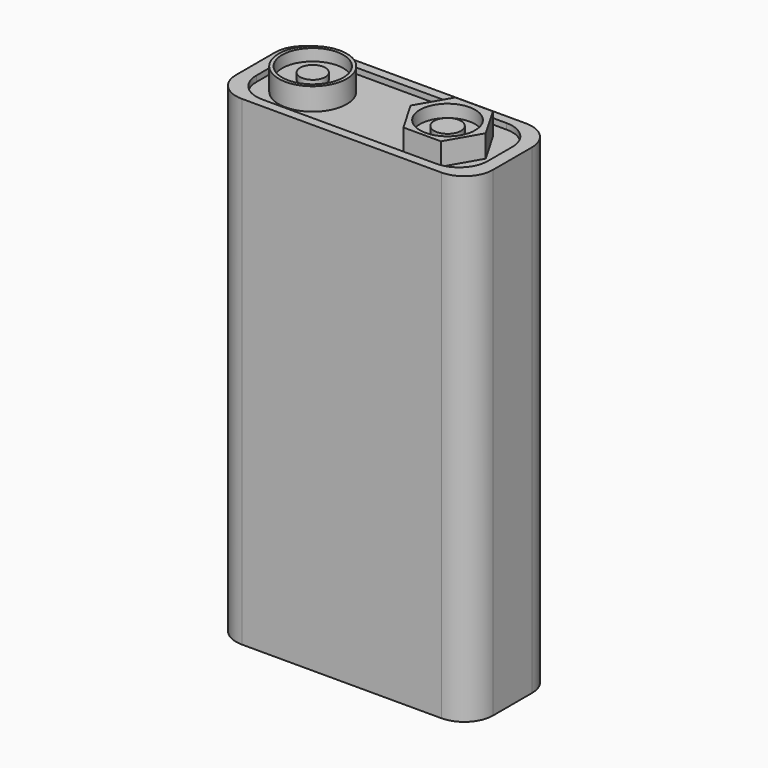
from build123d import *

# Parameters (mm, degrees)
F0_W      = 22.75429
F0_H      = 42.548669
F1_DEPTH  = 9.398
F2_R      = 2.54
F4_DEPTH  = 0.508
F6_DEPTH  = 1.9812
F7_R      = 3.013325
F8_DEPTH  = 1.9812
F9_R      = 2.713026
F10_DEPTH = 1.0414
F11_R     = 1.117074
F12_DEPTH = 0.5588
F13_R     = 2.450394
F14_DEPTH = 1.1176
F15_R     = 1.193925
F16_DEPTH = 0.6604


with BuildPart() as f1:
    # F0 (on Front) → F1 (new body)
    with BuildSketch(Plane.XZ):
        with Locations((1.757446, -0.647479)):
            Rectangle(F0_W, F0_H)
    extrude(amount=F1_DEPTH)

    # F2
    f2_edges = [f1.edges().sort_by_distance(p)[0] for p in [
        (13.134591, -9.398, -0.647479),
        (-9.619699, -9.398, -0.647479),
        (13.134591, 0, -0.647479),
        (-9.619699, 0, -0.647479),
    ]]
    fillet(f2_edges, radius=F2_R)

    # F3 (on face) → F4 (cut)
    with BuildSketch(Plane.XY.offset(20.626856)):
        with BuildLine():
            Line((9.49368, -0.802048), (-5.928423, -0.802048))
            ThreePointArc((-5.928423, -0.802048), (-7.724474, -1.545997), (-8.468423, -3.342048))
            Line((-8.468423, -3.342048), (-8.468423, -6.049972))
            ThreePointArc((-8.468423, -6.049972), (-7.724474, -7.846024), (-5.928423, -8.589972))
            Line((-5.928423, -8.589972), (9.49368, -8.589972))
            ThreePointArc((9.49368, -8.589972), (11.289732, -7.846024), (12.03368, -6.049972))
            Line((12.03368, -6.049972), (12.03368, -3.342048))
            ThreePointArc((12.03368, -3.342048), (11.289732, -1.545997), (9.49368, -0.802048))
        make_face()
    extrude(amount=-F4_DEPTH, mode=Mode.SUBTRACT)

    # F5 (on face) → F6 (join)
    with BuildSketch(Plane.XY.offset(20.118856)):
        Polygon((9.422873, -2.225276), (6.099785, -2.225276), (4.438241, -5.103154), (6.099785, -7.981033), (9.422873, -7.981033), (11.084417, -5.103154), align=None)
    extrude(amount=F6_DEPTH)

    # F7 (on face) → F8 (join)
    with BuildSketch(Plane.XY.offset(20.118856)):
        with Locations((-4.526955, -4.731211)):
            Circle(F7_R)
    extrude(amount=F8_DEPTH)

    # F9 (on face) → F10 (cut)
    with BuildSketch(Plane.XY.offset(22.100056)):
        with Locations((-4.526955, -4.731211)):
            Circle(F9_R)
    extrude(amount=-F10_DEPTH, mode=Mode.SUBTRACT)

    # F11 (on face) → F12 (join)
    with BuildSketch(Plane.XY.offset(21.058656)):
        with Locations((-4.526955, -4.731211)):
            Circle(F11_R)
    extrude(amount=F12_DEPTH)

    # F13 (on face) → F14 (cut)
    with BuildSketch(Plane.XY.offset(22.100056)):
        with Locations((7.78931, -5.203744)):
            Circle(F13_R)
    extrude(amount=-F14_DEPTH, mode=Mode.SUBTRACT)

    # F15 (on face) → F16 (join)
    with BuildSketch(Plane.XY.offset(20.982456)):
        with Locations((7.78931, -5.203744)):
            Circle(F15_R)
    extrude(amount=F16_DEPTH)


solid = f1.part
